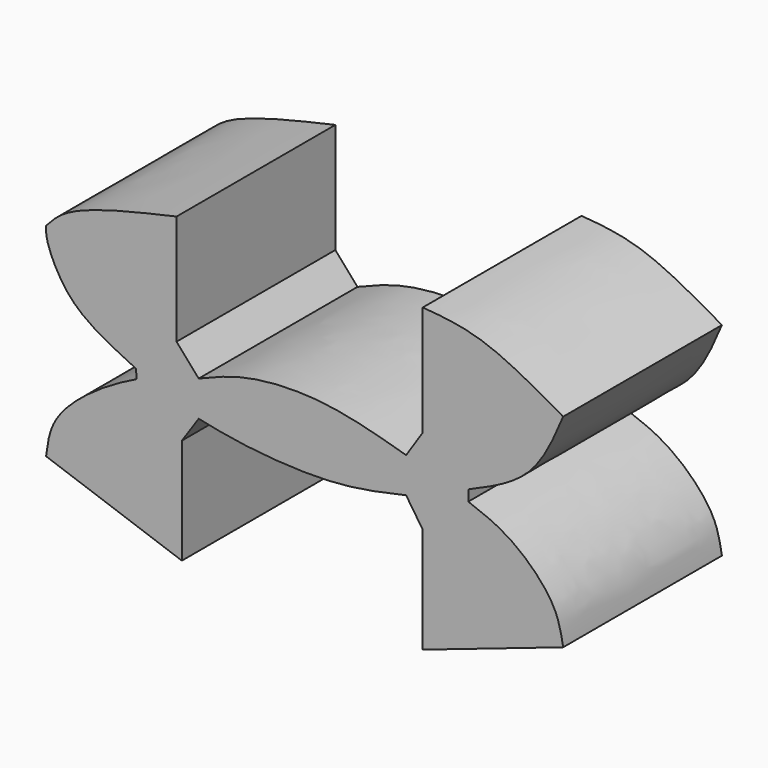
from build123d import *

# Parameters (mm, degrees)
F1_DEPTH = 25.4


with BuildPart() as f1:
    # F0 (on Front) → F1 (new body)
    with BuildSketch(Plane.XZ):
        with BuildLine():
            add(Edge.make_bspline(
                [(-21.5951316059, 5.9831868857), (-23.6436263111, 6.9702990988), (-27.468567384, 8.8134310521), (-31.0300492604, 12.0580921365), (-33.122585586, 16.5642223308), (-33.1027415216, 17.865364374), (-33.0953523517, 18.3498598635)],
                knots=[0, 0, 0, 0, 0.3102683978, 0.5793319042, 0.8433593042, 1, 1, 1, 1], degree=3))
            add(Edge.make_bspline(
                [(-21.5023811907, 4.8294938169), (-21.5332979957, 5.2140581732), (-21.5642148008, 5.5986225295), (-21.5951316059, 5.9831868857)],
                knots=[0, 0, 0, 0, 1.157415369, 1.157415369, 1.157415369, 1.157415369], degree=3))
            add(Edge.make_bspline(
                [(-33.0953523517, -7.6350993477), (-32.9036425545, -6.0829048451), (-32.4703904986, -2.5750431208), (-26.2039841368, 2.46612334), (-22.971686284, 4.0909133117), (-21.5023811907, 4.8294938169)],
                knots=[0, 0, 0, 0, 0.3021159295, 0.682762955, 1, 1, 1, 1], degree=3))
            add(Edge.make_bspline(
                [(-15.7181583345, -13.7451933697), (-21.5105563402, -11.7084953624), (-27.3029543459, -9.671797355), (-33.0953523517, -7.6350993477)],
                knots=[0, 0, 0, 0, 18.4201010005, 18.4201010005, 18.4201010005, 18.4201010005], degree=3))
            add(Edge.make_bspline(
                [(-15.7181583345, -0.2215175482), (-15.7181583345, -4.7294094887), (-15.7181583345, -9.2373014292), (-15.7181583345, -13.7451933697)],
                knots=[0, 0, 0, 0, 13.5236758215, 13.5236758215, 13.5236758215, 13.5236758215], degree=3))
            add(Edge.make_bspline(
                [(-13.5607328266, 2.955731703), (-14.2798746626, 1.8966486192), (-14.9990164985, 0.8375655355), (-15.7181583345, -0.2215175482)],
                knots=[0, 0, 0, 0, 3.8404944507, 3.8404944507, 3.8404944507, 3.8404944507], degree=3))
            add(Edge.make_bspline(
                [(12.984293513, 2.955731703), (10.0406802683, 2.2901765575), (3.8717068002, 0.8953628737), (-7.5681974041, 1.690805934), (-11.7847492692, 2.5808507538), (-13.5607328266, 2.955731703)],
                knots=[0, 0, 0, 0, 0.3456549938, 0.7243942423, 1, 1, 1, 1], degree=3))
            add(Edge.make_bspline(
                [(15.1110468432, -0.2215175482), (14.4021290665, 0.8375655355), (13.6932112897, 1.8966486192), (12.984293513, 2.955731703)],
                knots=[0, 0, 0, 0, 3.8233483404, 3.8233483404, 3.8233483404, 3.8233483404], degree=3))
            add(Edge.make_bspline(
                [(15.1110468432, -13.7451933697), (15.1110468432, -9.2373014292), (15.1110468432, -4.7294094887), (15.1110468432, -0.2215175482)],
                knots=[0, 0, 0, 0, 13.5236758215, 13.5236758215, 13.5236758215, 13.5236758215], degree=3))
            add(Edge.make_bspline(
                [(33.0811291933, -7.6350993477), (27.0911017433, -9.671797355), (21.1010742933, -11.7084953624), (15.1110468432, -13.7451933697)],
                knots=[0, 0, 0, 0, 18.9804401589, 18.9804401589, 18.9804401589, 18.9804401589], degree=3))
            add(Edge.make_bspline(
                [(20.9424085915, 4.8294938169), (22.7137481964, 4.1743902504), (26.4967712183, 2.7752955386), (32.2597045801, -2.8240458218), (32.8305545387, -6.1674928796), (33.0811291933, -7.6350993477)],
                knots=[0, 0, 0, 0, 0.3306644812, 0.7061950976, 1, 1, 1, 1], degree=3))
            add(Edge.make_bspline(
                [(20.9424085915, 6.2144487165), (20.9424085915, 5.7527970833), (20.9424085915, 5.2911454501), (20.9424085915, 4.8294938169)],
                knots=[0, 0, 0, 0, 1.3849548995, 1.3849548995, 1.3849548995, 1.3849548995], degree=3))
            add(Edge.make_bspline(
                [(33.0811291933, 18.3498598635), (31.8872017971, 15.5390581715), (29.4903439724, 9.8962594132), (23.7988464837, 7.4447883385), (20.9424085915, 6.2144487165)],
                knots=[0, 0, 0, 0, 0.4981219094, 1, 1, 1, 1], degree=3))
            add(Edge.make_bspline(
                [(15.1110468432, 24.8088873923), (17.5254372599, 24.6136997799), (22.9469923423, 24.1754026492), (29.4655126861, 20.4282735429), (33.0811291933, 18.3498598635)],
                knots=[0, 0, 0, 0, 0.4453317139, 1, 1, 1, 1], degree=3))
            add(Edge.make_bspline(
                [(15.1110468432, 10.7093043625), (15.1110468432, 15.4091653725), (15.1110468432, 20.1090263824), (15.1110468432, 24.8088873923)],
                knots=[0, 0, 0, 0, 14.0995830297, 14.0995830297, 14.0995830297, 14.0995830297], degree=3))
            add(Edge.make_bspline(
                [(12.984293513, 7.4797905982), (13.6932112897, 8.5562951863), (14.4021290665, 9.6327997744), (15.1110468432, 10.7093043625)],
                knots=[0, 0, 0, 0, 3.8668900789, 3.8668900789, 3.8668900789, 3.8668900789], degree=3))
            add(Edge.make_bspline(
                [(-13.5607328266, 7.4797905982), (-11.6806612578, 8.2583050457), (-7.4773532959, 9.9988430284), (2.5579302939, 10.4797003147), (9.4418051979, 8.4990477345), (12.984293513, 7.4797905982)],
                knots=[0, 0, 0, 0, 0.2820233447, 0.6305243853, 1, 1, 1, 1], degree=3))
            add(Edge.make_bspline(
                [(-16.3964033127, 10.7093043625), (-15.4511798173, 9.6327997744), (-14.505956322, 8.5562951863), (-13.5607328266, 7.4797905982)],
                knots=[0, 0, 0, 0, 4.2977652635, 4.2977652635, 4.2977652635, 4.2977652635], degree=3))
            add(Edge.make_bspline(
                [(-16.3964033127, 24.8088873923), (-16.3964033127, 20.1090263824), (-16.3964033127, 15.4091653725), (-16.3964033127, 10.7093043625)],
                knots=[0, 0, 0, 0, 14.0995830297, 14.0995830297, 14.0995830297, 14.0995830297], degree=3))
            add(Edge.make_bspline(
                [(-33.0953523517, 18.3498598635), (-32.3102007083, 19.2152114266), (-30.0416262769, 21.7155111416), (-21.7912992866, 23.5858628126), (-16.3964033127, 24.8088873923)],
                knots=[0, 0, 0, 0, 0.3460991328, 1, 1, 1, 1], degree=3))
        make_face()
    extrude(amount=F1_DEPTH)


solid = f1.part
